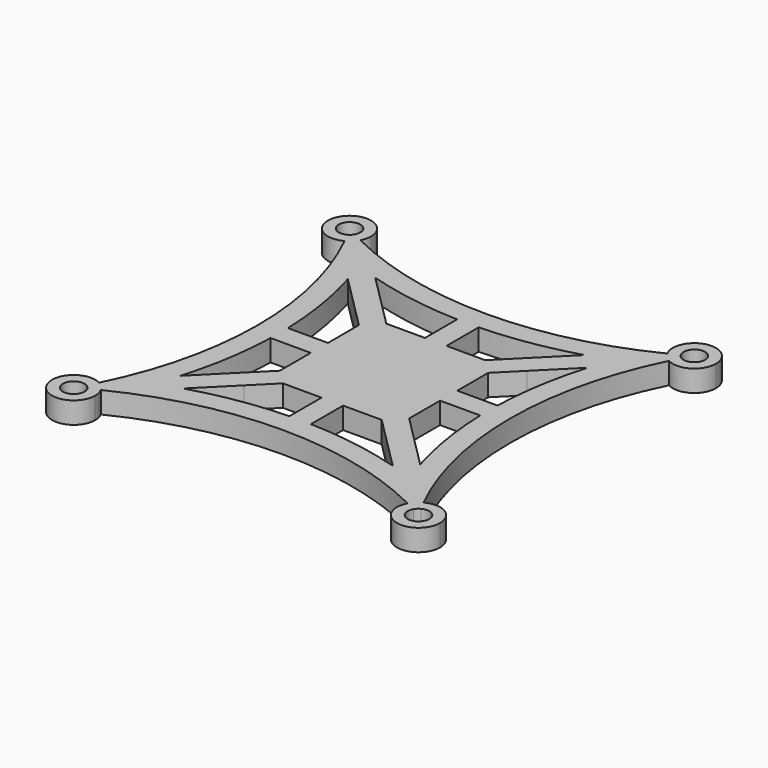
from build123d import *

# Parameters (mm, degrees)
F1_DEPTH = 3.175


with BuildPart() as f1:
    # F0 (on Top) → F1 (new body)
    with BuildSketch(Plane.XY):
        with BuildLine():
            ThreePointArc((-23.8992012939, 22.602102889), (-18.5940905122, 0), (-23.8992012939, -22.602102889))
            ThreePointArc((-23.8992012939, -22.602102889), (-23.1549359697, -23.1549359697), (-22.602102889, -23.8992012939))
            ThreePointArc((-22.602102889, -23.8992012939), (0, -18.5940905122), (22.602102889, -23.8992012939))
            ThreePointArc((22.602102889, -23.8992012939), (23.1549359697, -23.1549359697), (23.8992012939, -22.602102889))
            ThreePointArc((23.8992012939, -22.602102889), (18.5940905122, 0), (23.8992012939, 22.602102889))
            ThreePointArc((23.8992012939, 22.602102889), (23.1549359697, 23.1549359697), (22.602102889, 23.8992012939))
            ThreePointArc((22.602102889, 23.8992012939), (0, 18.5940905122), (-22.602102889, 23.8992012939))
            ThreePointArc((-22.602102889, 23.8992012939), (-23.1549359697, 23.1549359697), (-23.8992012939, 22.602102889))
        make_face()
        with BuildLine():
            ThreePointArc((15.4250677087, 17.6701317389), (17.1210557178, 18.2064936151), (18.7984489975, 18.7984489975))
            ThreePointArc((18.7984489975, 18.7984489975), (18.2064936151, 17.1210557178), (17.6701317389, 15.4250677087))
            ThreePointArc((17.6701317389, 15.4250677087), (16.1052257406, 8.5788994836), (15.4424411515, 1.5875))
            Line((15.4424411515, 1.5875), (15.875, 1.5875))
            Line((15.875, 1.5875), (15.875, -1.5875))
            Line((15.875, -1.5875), (15.4424411515, -1.5875))
            ThreePointArc((15.4424411515, -1.5875), (16.1052257406, -8.5788994836), (17.6701317389, -15.4250677087))
            ThreePointArc((17.6701317389, -15.4250677087), (18.2064936151, -17.1210557178), (18.7984489975, -18.7984489975))
            ThreePointArc((18.7984489975, -18.7984489975), (17.1210557178, -18.2064936151), (15.4250677087, -17.6701317389))
            ThreePointArc((15.4250677087, -17.6701317389), (8.5788994836, -16.1052257406), (1.5875, -15.4424411515))
            Line((1.5875, -15.4424411515), (1.5875, -15.875))
            Line((1.5875, -15.875), (-1.5875, -15.875))
            Line((-1.5875, -15.875), (-1.5875, -15.4424411515))
            ThreePointArc((-1.5875, -15.4424411515), (-8.5788994836, -16.1052257406), (-15.4250677087, -17.6701317389))
            ThreePointArc((-15.4250677087, -17.6701317389), (-17.1210557178, -18.2064936151), (-18.7984489975, -18.7984489975))
            ThreePointArc((-18.7984489975, -18.7984489975), (-18.2064936151, -17.1210557178), (-17.6701317389, -15.4250677087))
            ThreePointArc((-17.6701317389, -15.4250677087), (-16.1052257406, -8.5788994836), (-15.4424411515, -1.5875))
            Line((-15.4424411515, -1.5875), (-15.875, -1.5875))
            Line((-15.875, -1.5875), (-15.875, 1.5875))
            Line((-15.875, 1.5875), (-15.4424411515, 1.5875))
            ThreePointArc((-15.4424411515, 1.5875), (-16.1052257406, 8.5788994836), (-17.6701317389, 15.4250677087))
            ThreePointArc((-17.6701317389, 15.4250677087), (-18.2064936151, 17.1210557178), (-18.7984489975, 18.7984489975))
            ThreePointArc((-18.7984489975, 18.7984489975), (-17.1210557178, 18.2064936151), (-15.4250677087, 17.6701317389))
            ThreePointArc((-15.4250677087, 17.6701317389), (-8.5788994836, 16.1052257406), (-1.5875, 15.4424411515))
            Line((-1.5875, 15.4424411515), (-1.5875, 15.875))
            Line((-1.5875, 15.875), (1.5875, 15.875))
            Line((1.5875, 15.875), (1.5875, 15.4424411515))
            ThreePointArc((1.5875, 15.4424411515), (8.5788994836, 16.1052257406), (15.4250677087, 17.6701317389))
        make_face(mode=Mode.SUBTRACT)
        Polygon((9.525, 7.2799359697), (7.2799359697, 9.525), (1.5875, 9.525), (-1.5875, 9.525), (-7.2799359697, 9.525), (-9.525, 7.2799359697), (-9.525, 1.5875), (-9.525, -1.5875), (-9.525, -7.2799359697), (-7.2799359697, -9.525), (-1.5875, -9.525), (1.5875, -9.525), (7.2799359697, -9.525), (9.525, -7.2799359697), (9.525, -1.5875), (9.525, 1.5875), align=None)
        Polygon((-12.7, -10.4549359697), (-17.6701317389, -15.4250677087), (-15.4250677087, -17.6701317389), (-10.4549359697, -12.7), (-7.2799359697, -9.525), (-9.525, -9.525), (-9.525, -7.2799359697), align=None)
        Polygon((-10.4549359697, 12.7), (-15.4250677087, 17.6701317389), (-17.6701317389, 15.4250677087), (-12.7, 10.4549359697), (-9.525, 7.2799359697), (-9.525, 9.525), (-7.2799359697, 9.525), align=None)
        Polygon((17.6701317389, 15.4250677087), (15.4250677087, 17.6701317389), (10.4549359697, 12.7), (7.2799359697, 9.525), (9.525, 9.525), (9.525, 7.2799359697), (12.7, 10.4549359697), align=None)
        Polygon((15.4250677087, -17.6701317389), (17.6701317389, -15.4250677087), (12.7, -10.4549359697), (9.525, -7.2799359697), (9.525, -9.525), (7.2799359697, -9.525), (10.4549359697, -12.7), align=None)
        with BuildLine():
            ThreePointArc((-23.8125, -25.4), (-26.7685720081, -26.2044668474), (-24.6278283887, -24.0129501621))
            ThreePointArc((-24.6278283887, -24.0129501621), (-24.2580020364, -23.3103735942), (-23.8992012939, -22.602102889))
            ThreePointArc((-23.8992012939, -22.602102889), (-28.1244871895, -27.03027438), (-22.225, -25.4))
            ThreePointArc((-22.225, -25.4), (-22.3207185637, -24.6262747023), (-22.602102889, -23.8992012939))
            ThreePointArc((-22.602102889, -23.8992012939), (-23.3103735942, -24.2580020364), (-24.0129501621, -24.6278283887))
            ThreePointArc((-24.0129501621, -24.6278283887), (-23.8634294895, -25.0011174155), (-23.8125, -25.4))
        make_face()
        with BuildLine():
            ThreePointArc((-22.225, 25.4), (-28.1244871895, 27.03027438), (-23.8992012939, 22.602102889))
            ThreePointArc((-23.8992012939, 22.602102889), (-24.2580020364, 23.3103735942), (-24.6278283887, 24.0129501621))
            ThreePointArc((-24.6278283887, 24.0129501621), (-26.7685720081, 26.2044668474), (-23.8125, 25.4))
            ThreePointArc((-23.8125, 25.4), (-23.8634294895, 25.0011174155), (-24.0129501621, 24.6278283887))
            ThreePointArc((-24.0129501621, 24.6278283887), (-23.3103735942, 24.2580020364), (-22.602102889, 23.8992012939))
            ThreePointArc((-22.602102889, 23.8992012939), (-22.3207185637, 24.6262747023), (-22.225, 25.4))
        make_face()
        with BuildLine():
            ThreePointArc((28.575, 25.4), (24.6262747023, 28.4792814363), (22.602102889, 23.8992012939))
            ThreePointArc((22.602102889, 23.8992012939), (23.3103735942, 24.2580020364), (24.0129501621, 24.6278283887))
            ThreePointArc((24.0129501621, 24.6278283887), (25.0011174155, 26.9365705105), (26.9875, 25.4))
            ThreePointArc((26.9875, 25.4), (26.2044668474, 24.0314279919), (24.6278283887, 24.0129501621))
            ThreePointArc((24.6278283887, 24.0129501621), (24.2580020364, 23.3103735942), (23.8992012939, 22.602102889))
            ThreePointArc((23.8992012939, 22.602102889), (27.03027438, 22.6755128105), (28.575, 25.4))
        make_face()
        with BuildLine():
            ThreePointArc((24.0129501621, -24.6278283887), (23.3103735942, -24.2580020364), (22.602102889, -23.8992012939))
            ThreePointArc((22.602102889, -23.8992012939), (24.6262747023, -28.4792814363), (28.575, -25.4))
            ThreePointArc((28.575, -25.4), (27.03027438, -22.6755128105), (23.8992012939, -22.602102889))
            ThreePointArc((23.8992012939, -22.602102889), (24.2580020364, -23.3103735942), (24.6278283887, -24.0129501621))
            ThreePointArc((24.6278283887, -24.0129501621), (26.2044668474, -24.0314279919), (26.9875, -25.4))
            ThreePointArc((26.9875, -25.4), (25.0011174155, -26.9365705105), (24.0129501621, -24.6278283887))
        make_face()
        with BuildLine():
            Line((1.5875, 12.7), (1.5875, 15.4424411515))
            ThreePointArc((1.5875, 15.4424411515), (0, 15.4190905122), (-1.5875, 15.4424411515))
            Line((-1.5875, 15.4424411515), (-1.5875, 12.7))
            Line((-1.5875, 12.7), (-1.5875, 9.525))
            Line((-1.5875, 9.525), (1.5875, 9.525))
            Line((1.5875, 9.525), (1.5875, 12.7))
        make_face()
        with BuildLine():
            Line((-12.7, 1.5875), (-15.4424411515, 1.5875))
            ThreePointArc((-15.4424411515, 1.5875), (-15.4190905122, 0), (-15.4424411515, -1.5875))
            Line((-15.4424411515, -1.5875), (-12.7, -1.5875))
            Line((-12.7, -1.5875), (-9.525, -1.5875))
            Line((-9.525, -1.5875), (-9.525, 1.5875))
            Line((-9.525, 1.5875), (-12.7, 1.5875))
        make_face()
        with BuildLine():
            ThreePointArc((15.4424411515, -1.5875), (15.4190905122, 0), (15.4424411515, 1.5875))
            Line((15.4424411515, 1.5875), (12.7, 1.5875))
            Line((12.7, 1.5875), (9.525, 1.5875))
            Line((9.525, 1.5875), (9.525, -1.5875))
            Line((9.525, -1.5875), (12.7, -1.5875))
            Line((12.7, -1.5875), (15.4424411515, -1.5875))
        make_face()
        with BuildLine():
            ThreePointArc((-1.5875, -15.4424411515), (0, -15.4190905122), (1.5875, -15.4424411515))
            Line((1.5875, -15.4424411515), (1.5875, -12.7))
            Line((1.5875, -12.7), (1.5875, -9.525))
            Line((1.5875, -9.525), (-1.5875, -9.525))
            Line((-1.5875, -9.525), (-1.5875, -12.7))
            Line((-1.5875, -12.7), (-1.5875, -15.4424411515))
        make_face()
        with BuildLine():
            ThreePointArc((18.7984489975, -18.7984489975), (18.2064936151, -17.1210557178), (17.6701317389, -15.4250677087))
            Line((17.6701317389, -15.4250677087), (15.4250677087, -17.6701317389))
            ThreePointArc((15.4250677087, -17.6701317389), (17.1210557178, -18.2064936151), (18.7984489975, -18.7984489975))
        make_face()
        with BuildLine():
            ThreePointArc((17.6701317389, 15.4250677087), (18.2064936151, 17.1210557178), (18.7984489975, 18.7984489975))
            ThreePointArc((18.7984489975, 18.7984489975), (17.1210557178, 18.2064936151), (15.4250677087, 17.6701317389))
            Line((15.4250677087, 17.6701317389), (17.6701317389, 15.4250677087))
        make_face()
        with BuildLine():
            Line((-17.6701317389, 15.4250677087), (-15.4250677087, 17.6701317389))
            ThreePointArc((-15.4250677087, 17.6701317389), (-17.1210557178, 18.2064936151), (-18.7984489975, 18.7984489975))
            ThreePointArc((-18.7984489975, 18.7984489975), (-18.2064936151, 17.1210557178), (-17.6701317389, 15.4250677087))
        make_face()
        with BuildLine():
            Line((-15.4250677087, -17.6701317389), (-17.6701317389, -15.4250677087))
            ThreePointArc((-17.6701317389, -15.4250677087), (-18.2064936151, -17.1210557178), (-18.7984489975, -18.7984489975))
            ThreePointArc((-18.7984489975, -18.7984489975), (-17.1210557178, -18.2064936151), (-15.4250677087, -17.6701317389))
        make_face()
        Polygon((9.525, -9.525), (9.525, -7.2799359697), (7.2799359697, -9.525), align=None)
        Polygon((9.525, 9.525), (7.2799359697, 9.525), (9.525, 7.2799359697), align=None)
        Polygon((-9.525, 7.2799359697), (-7.2799359697, 9.525), (-9.525, 9.525), align=None)
        Polygon((-7.2799359697, -9.525), (-9.525, -7.2799359697), (-9.525, -9.525), align=None)
        with BuildLine():
            ThreePointArc((-24.6278283887, 24.0129501621), (-24.2580020364, 23.3103735942), (-23.8992012939, 22.602102889))
            ThreePointArc((-23.8992012939, 22.602102889), (-23.1549359697, 23.1549359697), (-22.602102889, 23.8992012939))
            ThreePointArc((-22.602102889, 23.8992012939), (-23.3103735942, 24.2580020364), (-24.0129501621, 24.6278283887))
            ThreePointArc((-24.0129501621, 24.6278283887), (-24.2774679849, 24.2774679849), (-24.6278283887, 24.0129501621))
        make_face()
        with BuildLine():
            ThreePointArc((24.0129501621, 24.6278283887), (23.3103735942, 24.2580020364), (22.602102889, 23.8992012939))
            ThreePointArc((22.602102889, 23.8992012939), (23.1549359697, 23.1549359697), (23.8992012939, 22.602102889))
            ThreePointArc((23.8992012939, 22.602102889), (24.2580020364, 23.3103735942), (24.6278283887, 24.0129501621))
            ThreePointArc((24.6278283887, 24.0129501621), (24.2774679849, 24.2774679849), (24.0129501621, 24.6278283887))
        make_face()
        with BuildLine():
            ThreePointArc((23.8992012939, -22.602102889), (23.1549359697, -23.1549359697), (22.602102889, -23.8992012939))
            ThreePointArc((22.602102889, -23.8992012939), (23.3103735942, -24.2580020364), (24.0129501621, -24.6278283887))
            ThreePointArc((24.0129501621, -24.6278283887), (24.2774679849, -24.2774679849), (24.6278283887, -24.0129501621))
            ThreePointArc((24.6278283887, -24.0129501621), (24.2580020364, -23.3103735942), (23.8992012939, -22.602102889))
        make_face()
        with BuildLine():
            ThreePointArc((-23.8992012939, -22.602102889), (-24.2580020364, -23.3103735942), (-24.6278283887, -24.0129501621))
            ThreePointArc((-24.6278283887, -24.0129501621), (-24.2774679849, -24.2774679849), (-24.0129501621, -24.6278283887))
            ThreePointArc((-24.0129501621, -24.6278283887), (-23.3103735942, -24.2580020364), (-22.602102889, -23.8992012939))
            ThreePointArc((-22.602102889, -23.8992012939), (-23.1549359697, -23.1549359697), (-23.8992012939, -22.602102889))
        make_face()
        with BuildLine():
            Line((1.5875, -15.875), (1.5875, -15.4424411515))
            ThreePointArc((1.5875, -15.4424411515), (0, -15.4190905122), (-1.5875, -15.4424411515))
            Line((-1.5875, -15.4424411515), (-1.5875, -15.875))
            Line((-1.5875, -15.875), (1.5875, -15.875))
        make_face()
        with BuildLine():
            ThreePointArc((-15.4424411515, -1.5875), (-15.4190905122, 0), (-15.4424411515, 1.5875))
            Line((-15.4424411515, 1.5875), (-15.875, 1.5875))
            Line((-15.875, 1.5875), (-15.875, -1.5875))
            Line((-15.875, -1.5875), (-15.4424411515, -1.5875))
        make_face()
        with BuildLine():
            ThreePointArc((-1.5875, 15.4424411515), (0, 15.4190905122), (1.5875, 15.4424411515))
            Line((1.5875, 15.4424411515), (1.5875, 15.875))
            Line((1.5875, 15.875), (-1.5875, 15.875))
            Line((-1.5875, 15.875), (-1.5875, 15.4424411515))
        make_face()
        with BuildLine():
            Line((15.875, 1.5875), (15.4424411515, 1.5875))
            ThreePointArc((15.4424411515, 1.5875), (15.4190905122, 0), (15.4424411515, -1.5875))
            Line((15.4424411515, -1.5875), (15.875, -1.5875))
            Line((15.875, -1.5875), (15.875, 1.5875))
        make_face()
    extrude(amount=F1_DEPTH)


solid = f1.part
